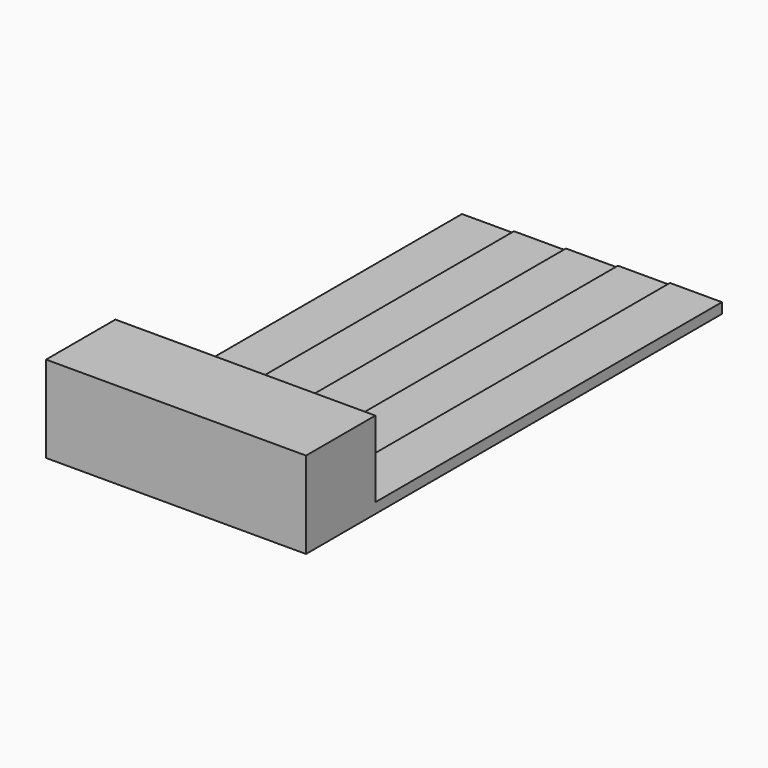
from build123d import *

# Parameters (mm, degrees)
F1_DEPTH = 5
F0_W     = 3
F0_H     = 25
F2_DEPTH = 0.2
F3_DEPTH = 0.3
F4_DEPTH = 0.4
F5_DEPTH = 0.5
F6_DEPTH = 0.6


with BuildPart() as f1:
    # F0 (on Top) → F1 (new body)
    with BuildSketch(Plane.XY):
        Polygon((-7.5, -15), (7.5, -15), (7.5, -10), (4.5, -10), (1.5, -10), (-1.5, -10), (-4.5, -10), (-7.5, -10), align=None)
    extrude(amount=F1_DEPTH)

    # F0 (on Top) → F2 (join)
    with BuildSketch(Plane.XY):
        with Locations((-6, 2.5)):
            Rectangle(F0_W, F0_H)
    extrude(amount=F2_DEPTH)

    # F0 (on Top) → F3 (join)
    with BuildSketch(Plane.XY):
        with Locations((-3, 2.5)):
            Rectangle(F0_W, F0_H)
    extrude(amount=F3_DEPTH)

    # F0 (on Top) → F4 (join)
    with BuildSketch(Plane.XY):
        with Locations((0, 2.5)):
            Rectangle(F0_W, F0_H)
    extrude(amount=F4_DEPTH)

    # F0 (on Top) → F5 (join)
    with BuildSketch(Plane.XY):
        with Locations((3, 2.5)):
            Rectangle(F0_W, F0_H)
    extrude(amount=F5_DEPTH)

    # F0 (on Top) → F6 (join)
    with BuildSketch(Plane.XY):
        with Locations((6, 2.5)):
            Rectangle(F0_W, F0_H)
    extrude(amount=F6_DEPTH)


solid = f1.part
